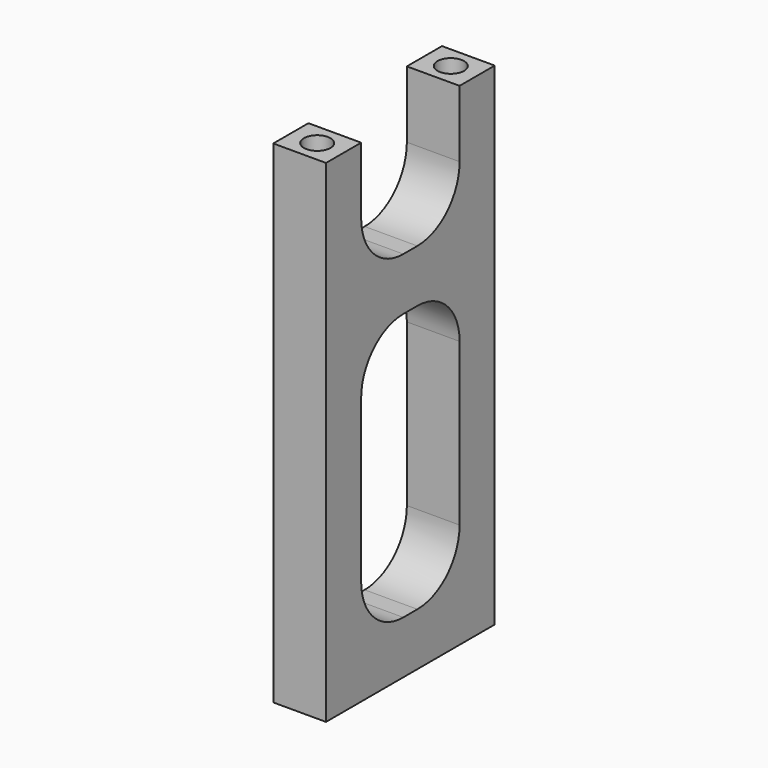
from build123d import *

# Parameters (mm, degrees)
F0_W     = 38.1
F0_H     = 88.9
F1_DEPTH = 4.7625
F3_DEPTH = 12.7
F4_R     = 2.4003
F5_DEPTH = 9.525
F6_R     = 2.4003
F7_DEPTH = 9.525
F8_W     = 22.225
F8_H     = 48.26
F9_DEPTH = 9.526
F10_R    = 9.525


with BuildPart() as f1:
    # F0 (on Right) → F1 (new body, symmetric)
    with BuildSketch(Plane.YZ):
        with Locations((19.05, 44.45)):
            Rectangle(F0_W, F0_H)
    extrude(amount=F1_DEPTH, both=True)

    # F2 (on face) → F3 (cut, symmetric)
    with BuildSketch(Plane.YZ.offset(4.7625)):
        with BuildLine():
            Line((30.1625, 88.9), (7.9375, 88.9))
            Line((7.9375, 88.9), (7.9375, 76.835))
            ThreePointArc((7.9375, 76.835), (10.7273079092, 70.0998079092), (17.4625, 67.31))
            Line((17.4625, 67.31), (20.6375, 67.31))
            ThreePointArc((20.6375, 67.31), (27.3726920908, 70.0998079092), (30.1625, 76.835))
            Line((30.1625, 76.835), (30.1625, 88.9))
        make_face()
    extrude(amount=F3_DEPTH, both=True, mode=Mode.SUBTRACT)

    # F4 (on face) → F5 (cut)
    with BuildSketch(Plane.XY.offset(88.9)):
        with Locations((0, 3.96875)):
            Circle(F4_R)
        with Locations((0, 34.13125)):
            Circle(F4_R)
    extrude(amount=-F5_DEPTH, mode=Mode.SUBTRACT)

    # F6 (on face) → F7 (cut)
    with BuildSketch(Plane(origin=(0, 0, 0), x_dir=(1, 0, 0), z_dir=(0, 0, -1))):
        with Locations((0, -3.96875)):
            Circle(F6_R)
        with Locations((0, -34.13125)):
            Circle(F6_R)
    extrude(amount=-F7_DEPTH, mode=Mode.SUBTRACT)

    # F8 (on face) → F9 (cut, through all)
    with BuildSketch(Plane.YZ.offset(4.7625)):
        with Locations((19.05, 33.655)):
            Rectangle(F8_W, F8_H)
    extrude(amount=-F9_DEPTH, mode=Mode.SUBTRACT)

    # F10
    f10_edges = [f1.edges().sort_by_distance(p)[0] for p in [
        (0, 7.9375, 57.785),
        (0, 30.1625, 57.785),
        (0, 7.9375, 9.525),
        (0, 30.1625, 9.525),
    ]]
    fillet(f10_edges, radius=F10_R)


solid = f1.part
